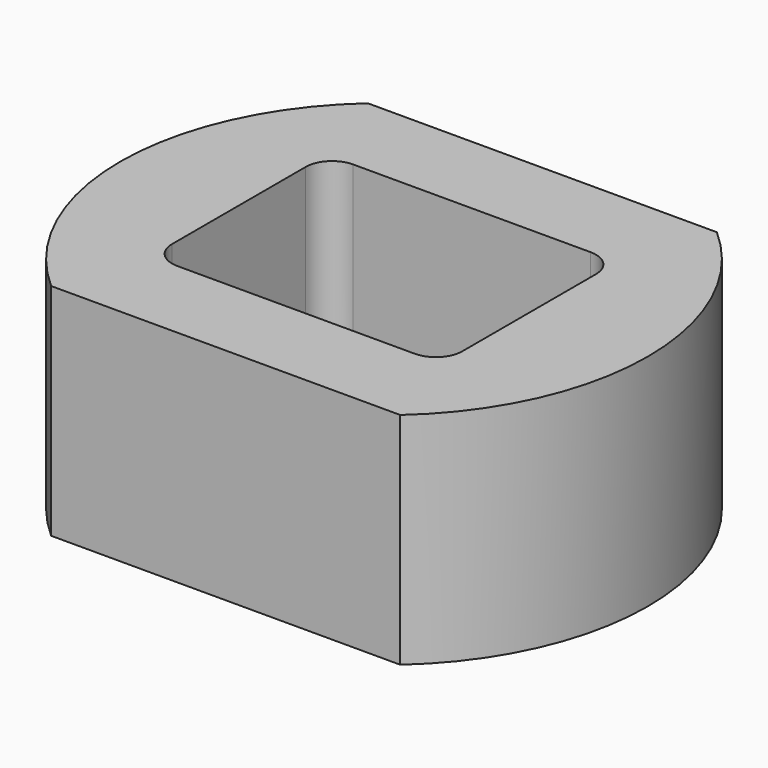
from build123d import *

# Parameters (mm, degrees)
F2_DEPTH = 25
F3_DEPTH = 22
F5_DEPTH = 3


with BuildPart() as f2:
    # F0 (on Top) → F2 (new body)
    with BuildSketch(Plane.XY):
        with BuildLine():
            Line((19.843135, 22.5), (-19.843135, 22.5))
            ThreePointArc((-19.843135, 22.5), (-30, 0), (-19.843135, -22.5))
            Line((-19.843135, -22.5), (19.843135, -22.5))
            ThreePointArc((19.843135, -22.5), (30, 0), (19.843135, 22.5))
        make_face()
    extrude(amount=-F2_DEPTH)

    # F1 (on face) → F3 (cut)
    with BuildSketch(Plane.XY):
        with BuildLine():
            ThreePointArc((-16.5, -9.5), (-15.62132, -11.62132), (-13.5, -12.5))
            Line((-13.5, -12.5), (13.5, -12.5))
            ThreePointArc((13.5, -12.5), (15.62132, -11.62132), (16.5, -9.5))
            Line((16.5, -9.5), (16.5, 9.5))
            ThreePointArc((16.5, 9.5), (15.62132, 11.62132), (13.5, 12.5))
            Line((13.5, 12.5), (-13.5, 12.5))
            ThreePointArc((-13.5, 12.5), (-15.62132, 11.62132), (-16.5, 9.5))
            Line((-16.5, 9.5), (-16.5, -9.5))
        make_face()
    extrude(amount=-F3_DEPTH, mode=Mode.SUBTRACT)

    # F4 (on face) → F5 (cut, through all)
    with BuildSketch(Plane(origin=(0, 0, -25), x_dir=(1, 0, 0), z_dir=(0, 0, -1))):
        with BuildLine():
            ThreePointArc((-12.5, -6.5), (-12.207107, -7.207107), (-11.5, -7.5))
            Line((-11.5, -7.5), (11.5, -7.5))
            ThreePointArc((11.5, -7.5), (12.207107, -7.207107), (12.5, -6.5))
            Line((12.5, -6.5), (12.5, 6.5))
            ThreePointArc((12.5, 6.5), (12.207107, 7.207107), (11.5, 7.5))
            Line((11.5, 7.5), (-11.5, 7.5))
            ThreePointArc((-11.5, 7.5), (-12.207107, 7.207107), (-12.5, 6.5))
            Line((-12.5, 6.5), (-12.5, -6.5))
        make_face()
    extrude(amount=-F5_DEPTH, mode=Mode.SUBTRACT)


solid = f2.part
